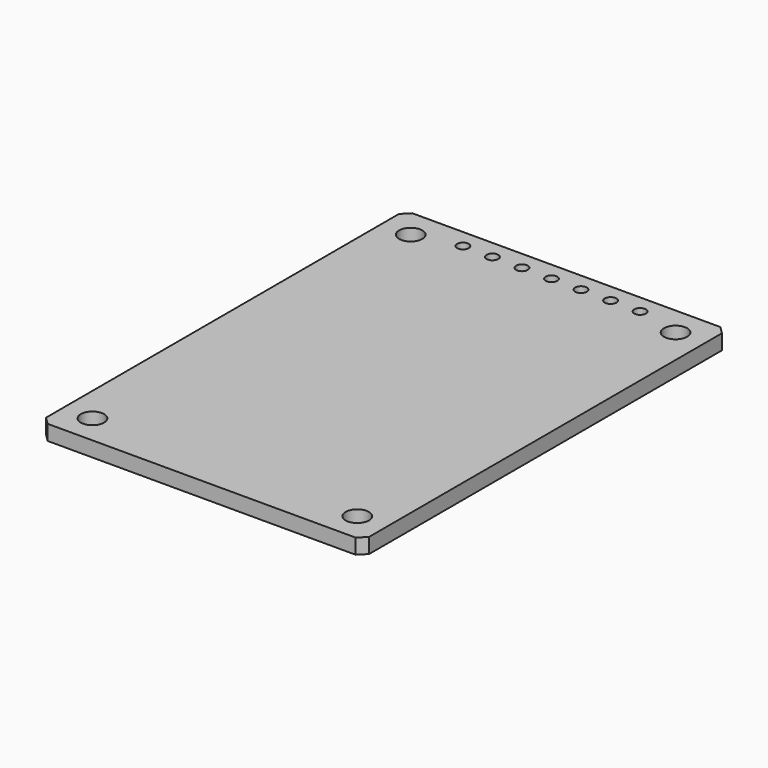
from build123d import *

# Parameters (mm, degrees)
SKETCH068_R         = 1
PAD021_DEPTH        = 1.3
SKETCH002_R         = 0.5
POCKET_DEPTH        = 0.001
POCKET_DEPTH_BACK   = 1.301
LINEARPATTERN_COUNT = 7
LINEARPATTERN_PITCH = 2.54


with BuildPart() as part:
    # Sketch068 → Pad021 (new body)
    with BuildSketch(Plane.XY):
        Polygon((-13.25, 19.61), (13.25, 19.61), (13.89, 18.97), (13.89, -18.97), (13.25, -19.61), (-13.25, -19.61), (-13.89, -18.97), (-13.89, 18.97), align=None)
        with Locations((11.39, 17.11)):
            Circle(SKETCH068_R, mode=Mode.SUBTRACT)
        with Locations((-11.39, 17.11)):
            Circle(SKETCH068_R, mode=Mode.SUBTRACT)
        with Locations((-11.39, -17.11)):
            Circle(SKETCH068_R, mode=Mode.SUBTRACT)
        with Locations((11.39, -17.11)):
            Circle(SKETCH068_R, mode=Mode.SUBTRACT)
    extrude(amount=PAD021_DEPTH)

    # Sketch002 → Pocket (cut, two sides)
    with BuildSketch(Plane.XY) as pocket_sk:
        with Locations((-7.62, 18.01)):
            Circle(SKETCH002_R)
    pocket = extrude(amount=-POCKET_DEPTH, mode=Mode.SUBTRACT) + extrude(pocket_sk.sketch, amount=POCKET_DEPTH_BACK, mode=Mode.SUBTRACT)

    # LinearPattern: Pocket ×7
    with Locations(*[(i * LINEARPATTERN_PITCH, 0, 0) for i in range(1, LINEARPATTERN_COUNT)]):
        add(pocket, mode=Mode.SUBTRACT)


solid = part.part
